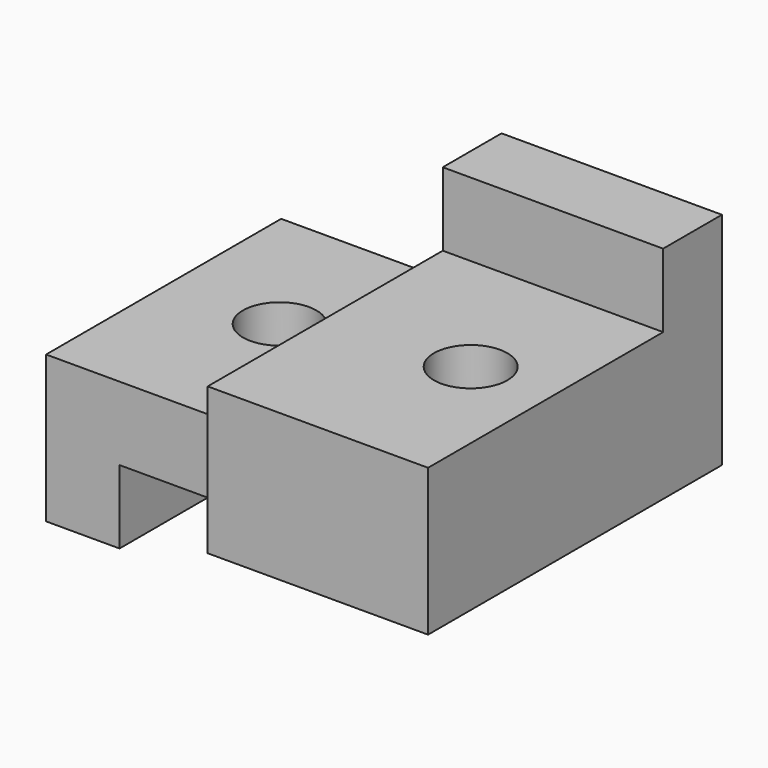
from build123d import *

# Parameters (mm, degrees)
F1_DEPTH = 31.75
F3_DEPTH = 6.35
F4_W     = 19.05
F4_H     = 6.35
F5_DEPTH = 6.35
F4_R     = 3.175
F6_DEPTH = 19.051


with BuildPart() as f1:
    # F0 (on Front) → F1 (new body)
    with BuildSketch(Plane.XZ):
        Polygon((0, 12.7), (0, 0), (6.35, 0), (6.35, 6.35), (38.1, 6.35), (38.1, 19.05), (19.05, 19.05), (19.05, 12.7), align=None)
    extrude(amount=F1_DEPTH)

    # F2 (on face) → F3 (cut)
    with BuildSketch(Plane.XZ.offset(31.75)):
        Polygon((19.05, 6.35), (19.05, 12.7), (0, 12.7), (0, 0), (6.35, 0), (6.35, 6.35), align=None)
    extrude(amount=-F3_DEPTH, mode=Mode.SUBTRACT)

    # F4 (on face) → F5 (join)
    with BuildSketch(Plane.XY.offset(19.05)):
        with Locations((28.575, -3.175)):
            Rectangle(F4_W, F4_H)
    extrude(amount=F5_DEPTH)

    # F4 (on face) → F6 (cut, through all)
    with BuildSketch(Plane.XY.offset(19.05)):
        with Locations((31.115, -18.415)):
            Circle(F4_R)
        with Locations((9.525, -12.065)):
            Circle(F4_R)
    extrude(amount=-F6_DEPTH, mode=Mode.SUBTRACT)


solid = f1.part
